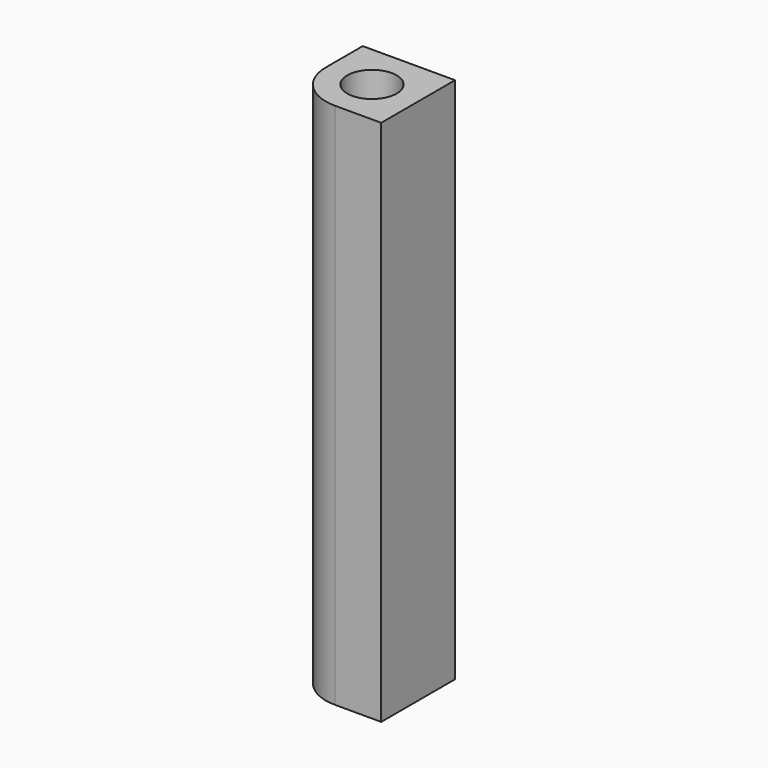
from build123d import *

# Parameters (mm, degrees)
F0_W      = 14
F0_H      = 14
F0_R      = 3.75
F1_DEPTH  = 70
F1_FACE_W = 14
F1_FACE_H = 14
F1_FACE_R = 3.75
F2_DEPTH  = 10
F3_R      = 7


with BuildPart() as f1:
    # F0 (on Top) → F1 (new body)
    with BuildSketch(Plane.XY):
        Rectangle(F0_W, F0_H)
        Circle(F0_R, mode=Mode.SUBTRACT)
    extrude(amount=F1_DEPTH)

    # F1_face (on face) → F2 (join)
    with BuildSketch(Plane.XY.offset(70)):
        Rectangle(F1_FACE_W, F1_FACE_H)
        Circle(F1_FACE_R, mode=Mode.SUBTRACT)
    extrude(amount=F2_DEPTH)

    # F3
    f3_edges = [f1.edges().sort_by_distance(p)[0] for p in [
        (-7, -7, 40),
    ]]
    fillet(f3_edges, radius=F3_R)


solid = f1.part
